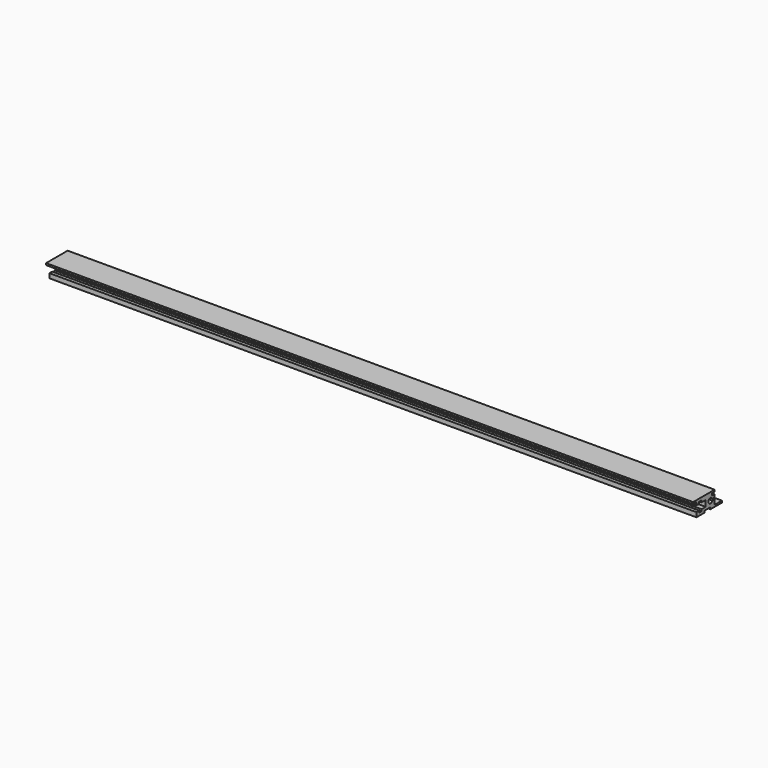
from build123d import *

# Parameters (mm, degrees)
F2_DEPTH = 427
F3_R     = 1.65
F4_DEPTH = 427


with BuildPart() as f2:
    # F1 (on Right) → F2 (new body)
    with BuildSketch(Plane.YZ):
        Polygon((-37.3753120244, 19.9501804985), (-37.3753120244, 18.7501804985), (-34.5753120244, 18.7501804985), (-34.5753120244, 16.9501804985), (-32.3157645762, 16.9501804985), (-32.3157645762, 18.2001804985), (-30.3341764957, 18.2001804985), (-30.3341764957, 16.9501804985), (-26.9753120244, 16.9501804985), (-26.9753120244, 12.9501804985), (-30.3341764957, 12.9501804985), (-30.3341764957, 11.7001804985), (-32.3157645762, 11.7001804985), (-32.3157645762, 12.9501804985), (-34.5753120244, 12.9501804985), (-34.5753120244, 9.9501804985), (-28.0753120244, 9.9501804985), (-28.0753120244, 11.1501804985), (-23.0753120244, 11.1501804985), (-23.0753120244, 9.9501804985), (-13.5753120244, 9.9501804985), (-13.5753120244, 11.1501804985), (-19.5753120244, 11.1501804985), (-19.5753120244, 14.3501804985), (-21.5753120244, 14.3501804985), (-21.5753120244, 15.5501804985), (-19.5753120244, 15.5501804985), (-19.5753120244, 17.3501804985), (-21.5753120244, 17.3501804985), (-21.5753120244, 18.7501804985), (-19.5753120244, 18.7501804985), (-19.5753120244, 19.9501804985), (-21.5753120244, 19.9501804985), align=None)
    extrude(amount=F2_DEPTH)

    # F3 (on face) → F4 (cut)
    with BuildSketch(Plane.YZ.offset(427)):
        with Locations((-23.0753120244, 14.9501804985)):
            Circle(F3_R)
    extrude(amount=-F4_DEPTH, mode=Mode.SUBTRACT)


solid = f2.part
